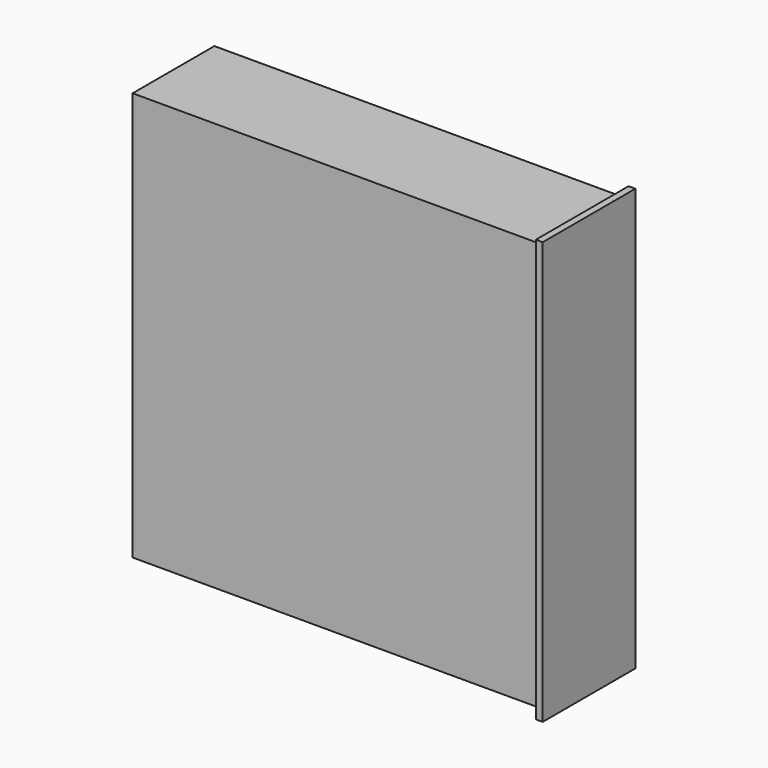
from build123d import *

# Parameters (mm, degrees)
F0_W     = 299.72
F0_H     = 294.64
F1_DEPTH = 5.08
F2_DEPTH = 71.12
F3_W     = 86.36
F3_H     = 314.96
F4_DEPTH = 5.08


with BuildPart() as f1:
    # F0 (on Front) → F1 (new body)
    with BuildSketch(Plane.XZ):
        Polygon((37.4193681992, 153.226976262), (-267.3806318008, 153.226976262), (-267.3806318008, -151.573023738), (37.4193681992, -151.573023738), (37.4193681992, -146.493023738), (-262.3006318008, -146.493023738), (-262.3006318008, 148.146976262), (37.4193681992, 148.146976262), align=None)
        with Locations((-112.4406318008, 0.826976262)):
            Rectangle(F0_W, F0_H)
    extrude(amount=F1_DEPTH)

    # F0 (on Front) → F2 (join)
    with BuildSketch(Plane.XZ):
        Polygon((37.4193681992, 153.226976262), (-267.3806318008, 153.226976262), (-267.3806318008, -151.573023738), (37.4193681992, -151.573023738), (37.4193681992, -146.493023738), (-262.3006318008, -146.493023738), (-262.3006318008, 148.146976262), (37.4193681992, 148.146976262), align=None)
    extrude(amount=-F2_DEPTH)


with BuildPart() as f4:
    # F3 (on face) → F4 (new body)
    with BuildSketch(Plane.YZ.offset(37.4193681992)):
        with Locations((33.02, 0.826976262)):
            Rectangle(F3_W, F3_H)
        Polygon((71.12, -151.573023738), (-5.08, -151.573023738), (-5.08, 153.226976262), (71.12, 153.226976262), (71.12, 148.146976262), (0, 148.146976262), (0, -146.493023738), (71.12, -146.493023738), align=None, mode=Mode.SUBTRACT)
        Polygon((-5.08, 153.226976262), (-5.08, -151.573023738), (71.12, -151.573023738), (71.12, -146.493023738), (0, -146.493023738), (0, 148.146976262), (71.12, 148.146976262), (71.12, 153.226976262), align=None)
    extrude(amount=F4_DEPTH)


solid = Compound([f1.part, f4.part])
